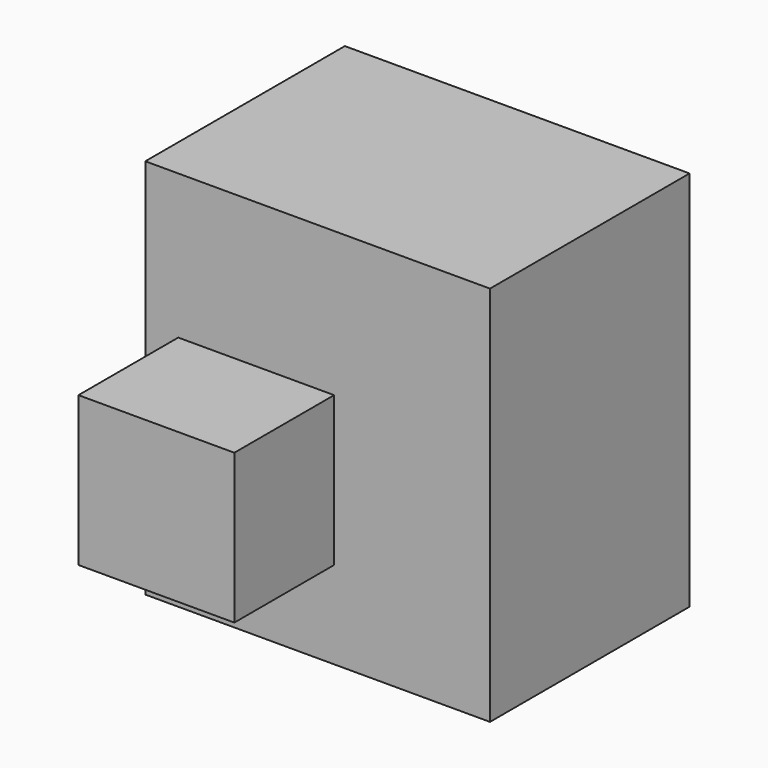
from build123d import *

# Parameters (mm, degrees)
F0_W     = 70.202325
F0_H     = 77.687127
F0_W_2   = 41.811679
F0_H_2   = 39.230711
F1_DEPTH = 50.8
F2_W     = 31.745904
F2_H     = 30.455421
F3_DEPTH = 25.4


with BuildPart() as f1:
    # F0 (on Front) → F1 (new body)
    with BuildSketch(Plane.XZ):
        with Locations((-16.518192, 17.937724)):
            Rectangle(F0_W, F0_H)
        with Locations((-27.100162, 8.001)):
            Rectangle(F0_W_2, F0_H_2, mode=Mode.SUBTRACT)
        with Locations((-27.100162, 8.001)):
            Rectangle(F0_W_2, F0_H_2)
    extrude(amount=-F1_DEPTH)

    # F2 (on face) → F3 (join)
    with BuildSketch(Plane.XZ):
        with Locations((-29.035888, 12.130549)):
            Rectangle(F2_W, F2_H)
    extrude(amount=F3_DEPTH)


solid = f1.part
